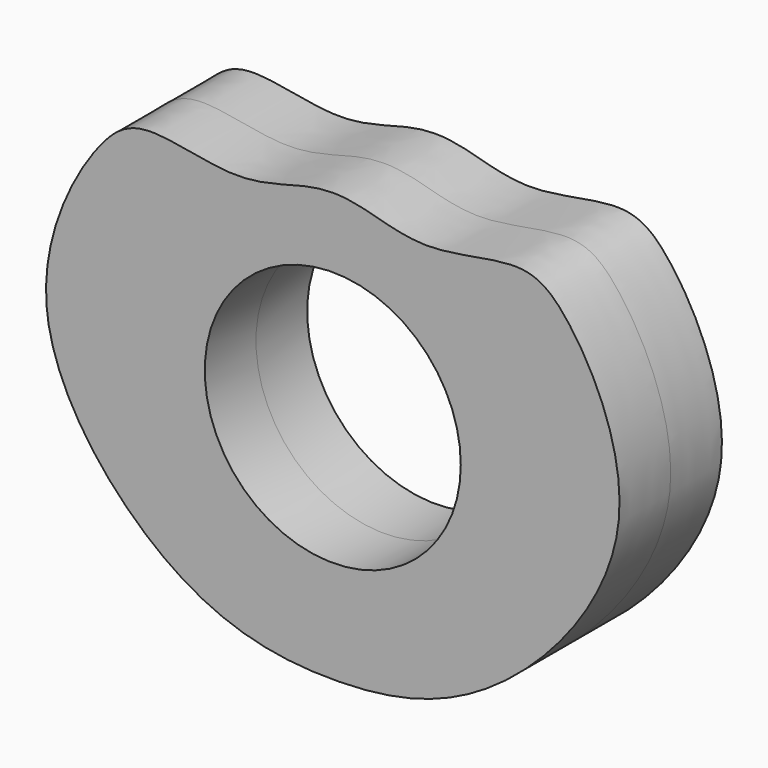
from build123d import *

# Parameters (mm, degrees)
F0_R     = 9.99998
F1_DEPTH = 4.99999


with BuildPart() as f1:
    # F0 (on Front) → F1 (new body, symmetric)
    with BuildSketch(Plane.XZ):
        with BuildLine():
            add(Edge.make_bspline(
                [(0, 15.4618052766), (-0.8051916446, 15.4618052766), (-2.7364102484, 15.1925458202), (-7.6029549223, 13.5045220806), (-14.7084344068, 15.8230307289), (-18.818516809, 13.0382147569), (-25.9179276363, -0.8506049928), (-12.6119815104, -16.602326736), (0, -18.6474708461), (12.6119815104, -16.602326736), (25.9179276363, -0.8506049928), (18.818516809, 13.0382147569), (14.7084344068, 15.8230307289), (7.6029549223, 13.5045220806), (2.7364102484, 15.1925458202), (0.8051916446, 15.4618052766), (0, 15.4618052766)],
                knots=[0, 0, 0, 0, 0.0403313946, 0.0967331693, 0.1624889331, 0.2146481949, 0.3060989045, 0.4126216401, 0.5, 0.5873783599, 0.6939010955, 0.7853518051, 0.8375110669, 0.9032668307, 0.9596686054, 1, 1, 1, 1], degree=3))
        make_face()
        Circle(F0_R, mode=Mode.SUBTRACT)
    extrude(amount=F1_DEPTH, both=True)


solid = f1.part
